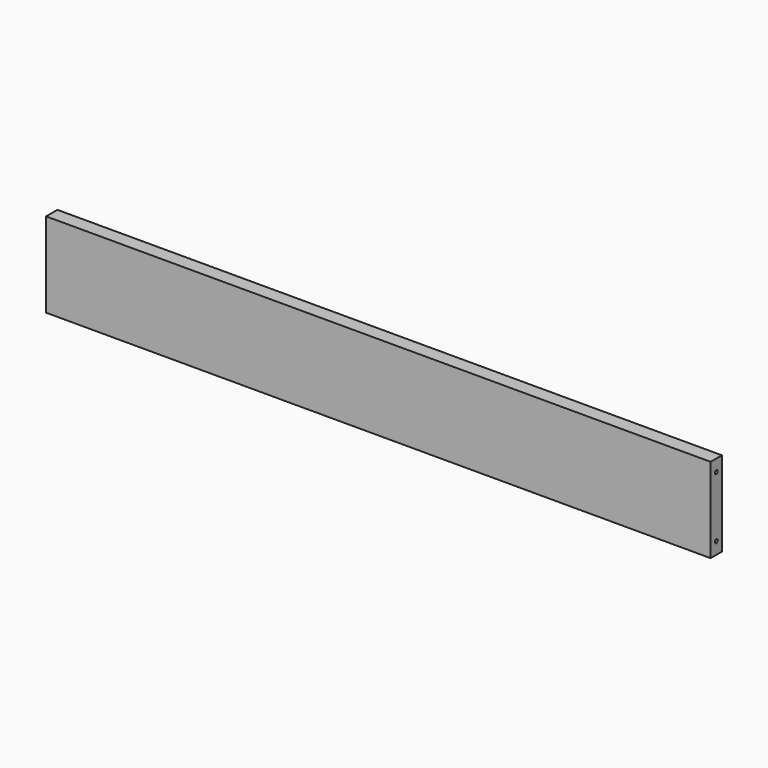
from build123d import *

# Parameters (mm, degrees)
F0_W     = 1193.8
F0_H     = 152.4
F1_DEPTH = 25.4
F3_D     = 6.35


with BuildPart() as f1:
    # F0 (on Front) → F1 (new body)
    with BuildSketch(Plane.XZ):
        Rectangle(F0_W, F0_H)
    extrude(amount=F1_DEPTH)

    # F3 (through all)
    with Locations(Plane.YZ.offset(596.9)):
        with Locations((-12.7, 54.584738), (-12.7, -54.584738)):
            Hole(F3_D / 2)


solid = f1.part
